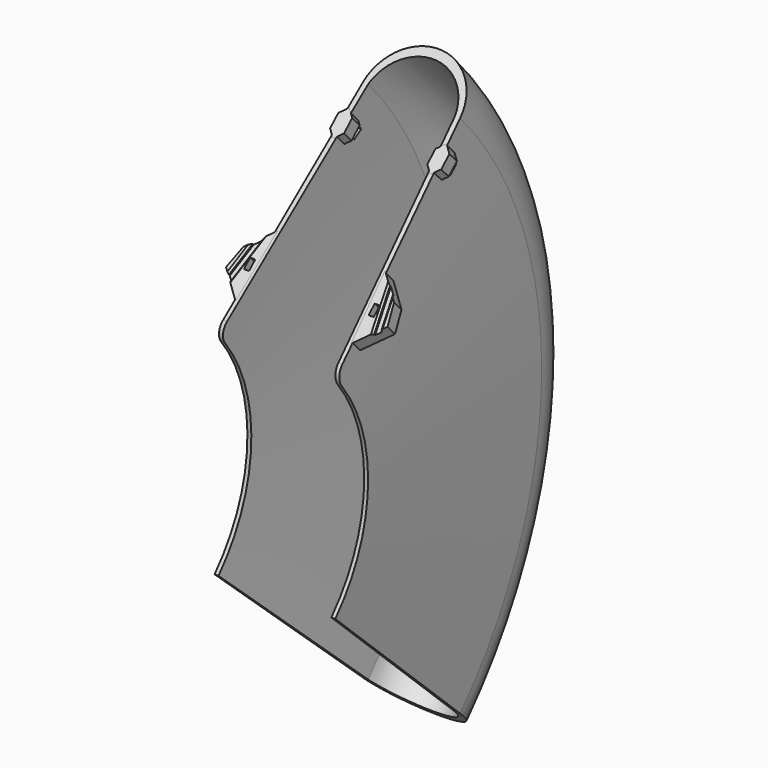
from build123d import *

# Parameters (mm, degrees)
REVOLUTION_ANGLE = 85
FILLET_R         = 8
PAD_DEPTH        = 8
POCKET_DEPTH     = 2
CHAMFER_SIZE     = 1
SKETCH005_W      = 3
SKETCH005_H      = 7
POCKET001_DEPTH  = 87.696576
POCKET002_DEPTH  = 78.501
SKETCH007_W      = 3
SKETCH007_H      = 6
POCKET003_DEPTH  = 87.696576


with BuildPart() as part:
    # Sketch → Revolution (revolve, symmetric)
    with BuildSketch(Plane.XY) as revolution_sk:
        with BuildLine():
            ThreePointArc((28, 223.38116), (0, 250), (-28, 223.38116))
            Line((-34.75, 90), (-28, 223.38116))
            Line((-34.75, 90), (-32.5, 90))
            Line((-32.5, 90), (-24.995207, 223.4))
            ThreePointArc((24.995207, 223.4), (0, 244.699412), (-24.995207, 223.4))
            Line((24.995207, 223.4), (32.5, 90))
            Line((32.5, 90), (34.75, 90))
            Line((34.75, 90), (28, 223.38116))
        make_face()
    revolve(axis=Axis((0, 0, 0), (1, 0, 0)), revolution_arc=REVOLUTION_ANGLE / 2)
    revolve(revolution_sk.sketch, axis=Axis((0, 0, 0), (-1, 0, 0)), revolution_arc=REVOLUTION_ANGLE / 2)

    # Fillet
    fillet_edges = [part.edges().sort_by_distance(p)[0] for p in [
        (33.625, 66.35496, 60.803119),
        (-33.625, 66.35496, 60.803119),
    ]]
    fillet(fillet_edges, radius=FILLET_R)

    # Sketch002 (on Face5 of Fillet) → Pad (new body)
    with BuildSketch(Plane(origin=(0, 0, 0), x_dir=(1, 0, 0), z_dir=(0, -0.67559, 0.737277))):
        Polygon((-43.394171, 132.697505), (-46.5, 121.106395), (-33.248819, 107.855214), (-31, 145.091677), align=None)
        Polygon((43.394171, 132.697505), (46.5, 121.106395), (33.248819, 107.855214), (31, 145.091677), align=None)
        Polygon((28, 194.106395), (32, 198.106395), (32, 206.106395), (28, 210.106395), (24, 206.106395), (24, 198.106395), align=None)
        Polygon((-28, 194.106395), (-24, 198.106395), (-24, 206.106395), (-28, 210.106395), (-32, 206.106395), (-32, 198.106395), align=None)
    extrude(amount=-PAD_DEPTH)

    # Sketch003 (on Face47 of Pad) → Pocket (cut)
    with BuildSketch(Plane(origin=(0, 0, 0), x_dir=(1, 0, 0), z_dir=(0, -0.67559, 0.737277))):
        Polygon((35, 146.869795), (45, 97.88), (47.939388, 98.48), (37.939388, 147.469795), align=None)
        Polygon((-47.939388, 98.48), (-45, 97.88), (-35, 146.869795), (-37.939388, 147.469795), align=None)
    extrude(amount=-POCKET_DEPTH, mode=Mode.SUBTRACT)

    # Chamfer
    chamfer_edges = [part.edges().sort_by_distance(p)[0] for p in [
        (42.094426, 93.718526, 85.877207),
        (38.89944, 94.199359, 86.317809),
        (-38.89944, 94.199359, 86.317809),
        (-42.094426, 93.718526, 85.877207),
    ]]
    chamfer(chamfer_edges, length=CHAMFER_SIZE)

    # Sketch005 (on Face6 of Chamfer) → Pocket001 (cut, through all)
    with BuildSketch(Plane(origin=(0, 5.404722, -5.898219), x_dir=(1, 0, 0), z_dir=(0, 0.67559, -0.737277))):
        with Locations((-36.047712, 125.078524)):
            Rectangle(SKETCH005_W, SKETCH005_H)
        with Locations((36.047712, 125.078524)):
            Rectangle(SKETCH005_W, SKETCH005_H)
    extrude(amount=-POCKET001_DEPTH, mode=Mode.SUBTRACT)

    # Sketch006 → Pocket002 (cut, through all)
    with BuildSketch(Plane.YZ.offset(32)):
        Polygon((154.311436, 128.180853), (156.149665, 125.810007), (160.891358, 129.486466), (159.053128, 131.857312), align=None)
    extrude(amount=-POCKET002_DEPTH, mode=Mode.SUBTRACT)

    # Sketch007 (on Face6 of Pocket002) → Pocket003 (cut, through all)
    with BuildSketch(Plane(origin=(0, 5.404722, -5.898219), x_dir=(1, 0, 0), z_dir=(0, 0.67559, -0.737277))):
        with Locations((-35.898523, -126.117473)):
            Rectangle(SKETCH007_W, SKETCH007_H)
        with Locations((35.898523, -126.117473)):
            Rectangle(SKETCH007_W, SKETCH007_H)
    extrude(amount=-POCKET003_DEPTH, mode=Mode.SUBTRACT)


solid = part.part
